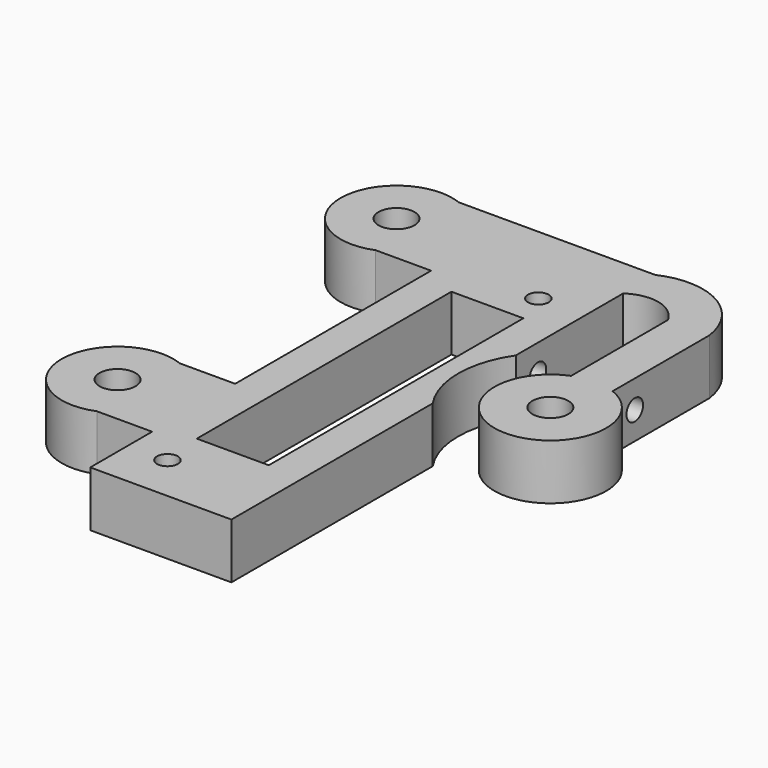
from build123d import *

# Parameters (mm, degrees)
F0_R           = 1.5
F1_DEPTH       = 8
F2_D           = 5.2
F2_DEPTH       = 30
F2_CBORE_D     = 10.2
F2_CBORE_DEPTH = 1.5
F2_TIP         = 1.5622376095
F4_D           = 3
F4_DEPTH       = 20
F4_TIP         = 0.9012909285
F5_D           = 3
F5_DEPTH       = 20
F5_CBORE_D     = 5.3
F5_CBORE_DEPTH = 4
F5_TIP         = 0.9012909285


with BuildPart() as f1:
    # F0 (on Top) → F1 (new body)
    with BuildSketch(Plane.XY):
        with BuildLine():
            Line((-21.4485637844, 22.2857501358), (-21.4485637844, 37.2857501358))
            ThreePointArc((-21.4485637844, 37.2857501358), (-32.5263109951, 29.7857501358), (-21.4485637844, 22.2857501358))
        make_face()
        with BuildLine():
            ThreePointArc((-16.3708165737, 29.7857501358), (-17.7596460232, 34.3143679364), (-21.4485637844, 37.2857501358))
            Line((-21.4485637844, 37.2857501358), (-21.4485637844, 22.2857501358))
            ThreePointArc((-21.4485637844, 22.2857501358), (-17.7596460232, 25.2571323352), (-16.3708165737, 29.7857501358))
        make_face()
        with BuildLine():
            Line((-13.4485637844, 22.2857501358), (-13.4485637844, 37.2857501358))
            Line((-13.4485637844, 37.2857501358), (-21.4485637844, 37.2857501358))
            ThreePointArc((-21.4485637844, 37.2857501358), (-17.7596460232, 34.3143679364), (-16.3708165737, 29.7857501358))
            ThreePointArc((-16.3708165737, 29.7857501358), (-17.7596460232, 25.2571323352), (-21.4485637844, 22.2857501358))
            Line((-21.4485637844, 22.2857501358), (-13.4485637844, 22.2857501358))
        make_face()
        with BuildLine():
            Line((6.9514365147, 31.482860446), (6.9514365147, 37.2857501358))
            Line((6.9514365147, 37.2857501358), (-13.4485637844, 37.2857501358))
            Line((-13.4485637844, 37.2857501358), (-13.4485637844, 22.2857501358))
            Line((-13.4485637844, 22.2857501358), (-13.4485637844, -13.1142501633))
            Line((-13.4485637844, -13.1142501633), (-13.4485637844, -28.1142501633))
            Line((-13.4485637844, -28.1142501633), (-13.4485637844, -39.2912365496))
            Line((-13.4485637844, -39.2912365496), (6.9514365147, -39.2912365496))
            Line((6.9514365147, -39.2912365496), (6.9514365147, -28.1142501633))
            Line((6.9514365147, -28.1142501633), (6.9514365147, -2.9142498642))
            ThreePointArc((6.9514365147, -2.9142498642), (4.637909559, 4.5857501358), (6.9514365147, 12.0857501358))
            Line((6.9514365147, 12.0857501358), (6.9514365147, 31.482860446))
        make_face()
        with Locations((-7.7535887534, -32.4602356078)):
            Circle(F0_R, mode=Mode.SUBTRACT)
        Polygon((-1.2058451539, 19.7087634504), (1.1941548461, 19.7087634504), (1.9514365147, 19.7087634504), (1.9514365147, -26.2912365496), (-8.4485637844, -26.2912365496), (-8.4485637844, 19.7087634504), align=None, mode=Mode.SUBTRACT)
        with Locations((0.2464112466, 24.5397643922)):
            Circle(F0_R, mode=Mode.SUBTRACT)
        with BuildLine():
            ThreePointArc((20.9514365147, 29.5776203275), (15.8929462828, 36.9579798621), (6.9514365147, 37.2857501358))
            Line((6.9514365147, 37.2857501358), (6.9514365147, 31.482860446))
            ThreePointArc((6.9514365147, 31.482860446), (11.3811141914, 32.3344336643), (14.9514365147, 29.5776203275))
            Line((14.9514365147, 29.5776203275), (14.9514365147, 12.0857501358))
            ThreePointArc((14.9514365147, 12.0857501358), (17.9514365147, 12.6634973465), (20.9514365147, 12.0857501358))
            Line((20.9514365147, 12.0857501358), (20.9514365147, 26.9164390002))
            Line((20.9514365147, 26.9164390002), (20.9514365147, 29.5776203275))
        make_face()
        with BuildLine():
            Line((20.9514365147, 12.0857501358), (14.9514365147, 12.0857501358))
            Line((14.9514365147, 12.0857501358), (14.9514365147, -2.9142498642))
            ThreePointArc((14.9514365147, -2.9142498642), (22.4800543153, -2.1031676254), (26.0291837254, 4.5857501358))
            ThreePointArc((26.0291837254, 4.5857501358), (24.6403542759, 9.1143679364), (20.9514365147, 12.0857501358))
        make_face()
        with BuildLine():
            ThreePointArc((20.9514365147, 12.0857501358), (17.9514365147, 12.6634973465), (14.9514365147, 12.0857501358))
            Line((14.9514365147, 12.0857501358), (20.9514365147, 12.0857501358))
        make_face()
        with BuildLine():
            Line((14.9514365147, -2.9142498642), (14.9514365147, 12.0857501358))
            ThreePointArc((14.9514365147, 12.0857501358), (9.873689304, 4.5857501358), (14.9514365147, -2.9142498642))
        make_face()
        with BuildLine():
            Line((-13.4485637844, -28.1142501633), (-13.4485637844, -13.1142501633))
            Line((-13.4485637844, -13.1142501633), (-21.4485637844, -13.1142501633))
            ThreePointArc((-21.4485637844, -13.1142501633), (-17.7596460232, -16.0856323627), (-16.3708165737, -20.6142501633))
            ThreePointArc((-16.3708165737, -20.6142501633), (-17.7596460232, -25.1428679639), (-21.4485637844, -28.1142501633))
            Line((-21.4485637844, -28.1142501633), (-13.4485637844, -28.1142501633))
        make_face()
        with BuildLine():
            ThreePointArc((-16.3708165737, -20.6142501633), (-17.7596460232, -16.0856323627), (-21.4485637844, -13.1142501633))
            Line((-21.4485637844, -13.1142501633), (-21.4485637844, -28.1142501633))
            ThreePointArc((-21.4485637844, -28.1142501633), (-17.7596460232, -25.1428679639), (-16.3708165737, -20.6142501633))
        make_face()
        with BuildLine():
            Line((-21.4485637844, -28.1142501633), (-21.4485637844, -13.1142501633))
            ThreePointArc((-21.4485637844, -13.1142501633), (-32.5263109951, -20.6142501633), (-21.4485637844, -28.1142501633))
        make_face()
    extrude(amount=F1_DEPTH)

    # F2
    with Locations(Plane(origin=(0, 0, 0), x_dir=(1, 0, 0), z_dir=(0, 0, -1))):
        with Locations((17.9514365147, -4.5857501358), (-24.4485637844, -29.7857501358), (-24.4485637844, 20.6142501633)):
            CounterBoreHole(F2_D / 2, F2_CBORE_D / 2, F2_CBORE_DEPTH, depth=F2_DEPTH)
            with Locations((0, 0, -(F2_DEPTH + F2_TIP / 2))):  # 118° drill point
                Cone(0, F2_D / 2, F2_TIP, mode=Mode.SUBTRACT)

    # F4
    with Locations(Plane.YZ.offset(20.9514365147)):
        with Locations((16.0857501358, 4)):
            Hole(F4_D / 2, depth=F4_DEPTH)
            with Locations((0, 0, -(F4_DEPTH + F4_TIP / 2))):  # 118° drill point
                Cone(0, F4_D / 2, F4_TIP, mode=Mode.SUBTRACT)

    # F5
    with Locations(Plane(origin=(0, 0, 0), x_dir=(1, 0, 0), z_dir=(0, 0, -1))):
        with Locations((0.2464112466, -24.5397643922), (-7.7535887534, 32.4602356078)):
            CounterBoreHole(F5_D / 2, F5_CBORE_D / 2, F5_CBORE_DEPTH, depth=F5_DEPTH)
            with Locations((0, 0, -(F5_DEPTH + F5_TIP / 2))):  # 118° drill point
                Cone(0, F5_D / 2, F5_TIP, mode=Mode.SUBTRACT)


solid = f1.part
